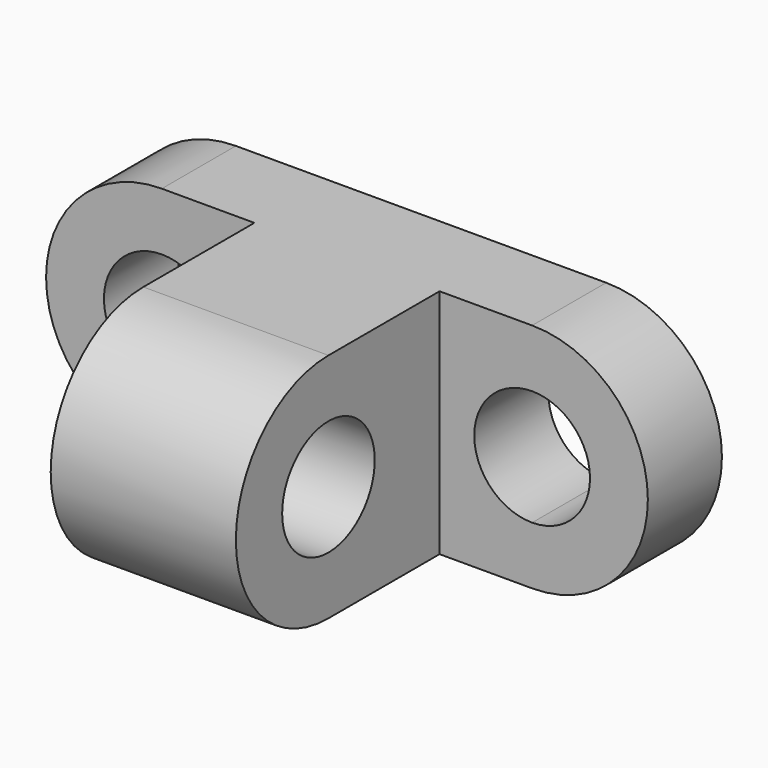
from build123d import *

# Parameters (mm, degrees)
F0_W     = 40
F0_H     = 50
F1_DEPTH = 20
F2_W     = 40
F2_H     = 50
F3_DEPTH = 30
F4_R     = 12.5
F5_DEPTH = 40
F6_DEPTH = 85.001


with BuildPart() as f1:
    # F0 (on Front) → F1 (new body)
    with BuildSketch(Plane.XZ):
        with BuildLine():
            Line((0, 12.5), (0, 0))
            Line((0, 0), (20, 0))
            Line((20, 0), (20, 50))
            Line((20, 50), (0, 50))
            Line((0, 50), (0, 37.5))
            ThreePointArc((0, 37.5), (8.838835, 33.838835), (12.5, 25))
            ThreePointArc((12.5, 25), (8.838835, 16.161165), (0, 12.5))
        make_face()
        with BuildLine():
            ThreePointArc((0, 50), (-25, 25), (0, 0))
            Line((0, 0), (0, 12.5))
            ThreePointArc((0, 12.5), (-12.5, 25), (0, 37.5))
            Line((0, 37.5), (0, 50))
        make_face()
        with Locations((40, 25)):
            Rectangle(F0_W, F0_H)
        with BuildLine():
            Line((60, 50), (60, 0))
            Line((60, 0), (80, 0))
            Line((80, 0), (80, 12.5))
            ThreePointArc((80, 12.5), (67.5, 25), (80, 37.5))
            Line((80, 37.5), (80, 50))
            Line((80, 50), (60, 50))
        make_face()
        with BuildLine():
            Line((80, 12.5), (80, 0))
            ThreePointArc((80, 0), (105, 25), (80, 50))
            Line((80, 50), (80, 37.5))
            ThreePointArc((80, 37.5), (88.838835, 33.838835), (92.5, 25))
            ThreePointArc((92.5, 25), (88.838835, 16.161165), (80, 12.5))
        make_face()
    extrude(amount=F1_DEPTH)

    # F2 (on face) → F3 (join)
    with BuildSketch(Plane.XZ.offset(20)):
        with Locations((40, 25)):
            Rectangle(F2_W, F2_H)
    extrude(amount=F3_DEPTH)

    # F4 (on face) → F5 (join)
    with BuildSketch(Plane(origin=(20, 0, 0), x_dir=(0, -1, 0), z_dir=(-1, 0, 0))):
        with Locations((50, 25)):
            Circle(F4_R)
        with BuildLine():
            Line((50, 12.5), (50, 0))
            ThreePointArc((50, 0), (75, 25), (50, 50))
            Line((50, 50), (50, 37.5))
            ThreePointArc((50, 37.5), (58.838835, 33.838835), (62.5, 25))
            ThreePointArc((62.5, 25), (58.838835, 16.161165), (50, 12.5))
        make_face()
    extrude(amount=-F5_DEPTH)

    # F4 (on face) → F6 (cut, through all)
    with BuildSketch(Plane(origin=(20, 0, 0), x_dir=(0, -1, 0), z_dir=(-1, 0, 0))):
        with Locations((50, 25)):
            Circle(F4_R)
    extrude(amount=-F6_DEPTH, mode=Mode.SUBTRACT)


solid = f1.part
